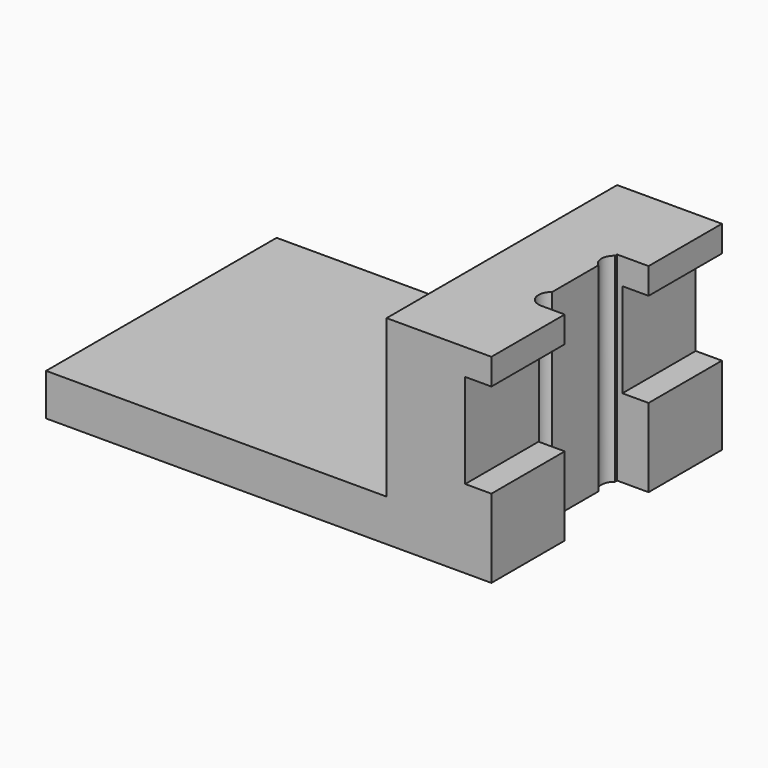
from build123d import *

# Parameters (mm, degrees)
F0_W          = 85
F0_H          = 38
F1_DEPTH      = 27.5
F2_W          = 65
F2_H          = 30
F3_DEPTH      = 27.501
F3_DEPTH_BACK = 27.501
F4_W          = 5
F4_H          = 18
F5_DEPTH      = 27.501
F5_DEPTH_BACK = 27.501
F7_DEPTH      = 38.001


with BuildPart() as f1:
    # F0 (on Front) → F1 (new body, symmetric)
    with BuildSketch(Plane.XZ):
        with Locations((-42.5, 19)):
            Rectangle(F0_W, F0_H)
    extrude(amount=F1_DEPTH, both=True)

    # F2 (on Front) → F3 (cut, two sides)
    with BuildSketch(Plane.XZ) as f3_sk:
        with Locations((-52.5, 23)):
            Rectangle(F2_W, F2_H)
    extrude(amount=-F3_DEPTH, mode=Mode.SUBTRACT)
    extrude(f3_sk.sketch, amount=F3_DEPTH_BACK, mode=Mode.SUBTRACT)

    # F4 (on Front) → F5 (cut, two sides)
    with BuildSketch(Plane.XZ) as f5_sk:
        with Locations((-2.5, 24)):
            Rectangle(F4_W, F4_H)
    extrude(amount=F5_DEPTH, mode=Mode.SUBTRACT)
    extrude(f5_sk.sketch, amount=-F5_DEPTH_BACK, mode=Mode.SUBTRACT)

    # F6 (on Top) → F7 (cut, through all)
    with BuildSketch(Plane.XY):
        with BuildLine():
            Line((-4.5, 10), (-6, 10))
            Line((-6, 10), (-6, 9.5))
            ThreePointArc((-6, 9.5), (-5.290569415, 9.8717082451), (-4.5, 10))
        make_face()
        with BuildLine():
            Line((4.5, 10), (-4.5, 10))
            ThreePointArc((-4.5, 10), (-5.290569415, 9.8717082451), (-6, 9.5))
            Line((-6, 9.5), (-6, 5.5))
            ThreePointArc((-6, 5.5), (-5.290569415, 5.1282917549), (-4.5, 5))
            Line((-4.5, 5), (4.5, 5))
            ThreePointArc((4.5, 5), (5.290569415, 5.1282917549), (6, 5.5))
            Line((6, 5.5), (6, 9.5))
            ThreePointArc((6, 9.5), (5.290569415, 9.8717082451), (4.5, 10))
        make_face()
        with BuildLine():
            Line((-6, 5.5), (-6, 9.5))
            ThreePointArc((-6, 9.5), (-7, 7.5), (-6, 5.5))
        make_face()
        with BuildLine():
            Line((6, 10), (4.5, 10))
            ThreePointArc((4.5, 10), (5.290569415, 9.8717082451), (6, 9.5))
            Line((6, 9.5), (6, 10))
        make_face()
        with BuildLine():
            ThreePointArc((-4.5, 5), (-5.290569415, 5.1282917549), (-6, 5.5))
            Line((-6, 5.5), (-6, -5.5))
            ThreePointArc((-6, -5.5), (-6.8717082451, -8.290569415), (-4.5, -10))
            Line((-4.5, -10), (4.5, -10))
            ThreePointArc((4.5, -10), (6.8717082451, -8.290569415), (6, -5.5))
            Line((6, -5.5), (6, 5.5))
            ThreePointArc((6, 5.5), (5.290569415, 5.1282917549), (4.5, 5))
            Line((4.5, 5), (-4.5, 5))
        make_face()
        with BuildLine():
            ThreePointArc((6, 5.5), (7, 7.5), (6, 9.5))
            Line((6, 9.5), (6, 5.5))
        make_face()
    extrude(amount=F7_DEPTH, mode=Mode.SUBTRACT)


solid = f1.part
